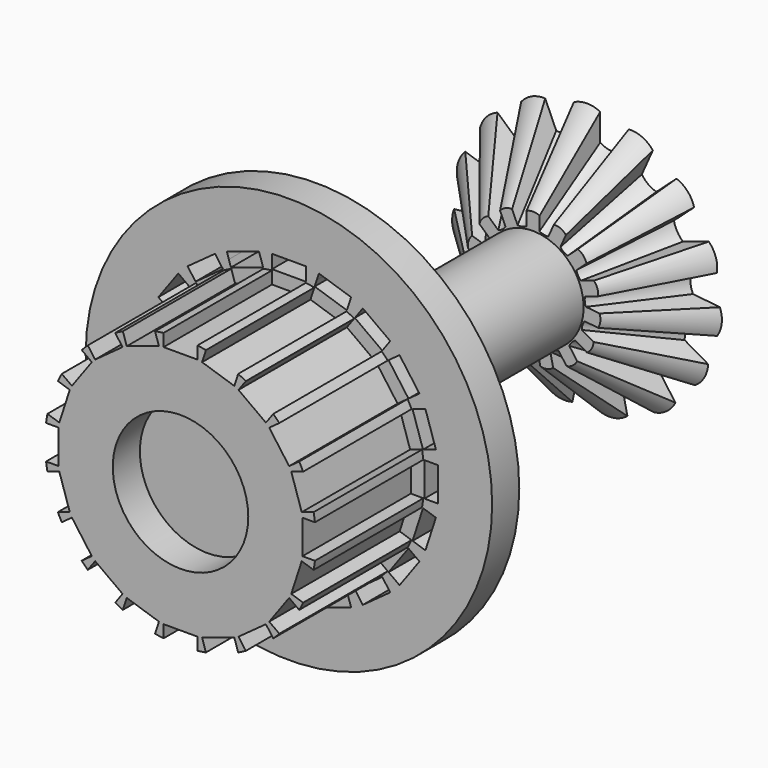
from build123d import *

# Parameters (mm, degrees)
F0_R      = 20
F1_DEPTH  = 20
F2_R      = 30
F3_DEPTH  = 5
F5_DEPTH  = 5.001
F6_R      = 7.5
F7_DEPTH  = 40
F8_W      = 5
F8_H      = 2
F8_W_2    = 2
F8_H_2    = 5
F9_DEPTH  = 20
F12_R     = 10
F13_DEPTH = 5


with BuildPart() as f1:
    # F0 (on Front) → F1 (new body)
    with BuildSketch(Plane.XZ):
        Circle(F0_R)
    extrude(amount=F1_DEPTH)

    # F2 (on face) → F3 (join)
    with BuildSketch(Plane(origin=(0, 0, 0), x_dir=(-1, 0, 0), z_dir=(0, 1, 0))):
        Circle(F2_R)
    extrude(amount=F3_DEPTH)

    # F4 (on face) → F5 (cut, through all)
    with BuildSketch(Plane.XZ):
        Polygon((-2.5, 22), (-2.5, 21), (-2.5, 20), (2.5, 20), (2.5, 22), align=None)
        Polygon((-4.420733, 21.695786), (-9.176015, 20.150701), (-8.866998, 19.199644), (-8.557981, 18.248588), (-3.802699, 19.793673), align=None)
        Polygon((-10.908733, 19.267837), (-14.953818, 16.328911), (-14.366033, 15.519894), (-13.778248, 14.710877), (-9.733163, 17.649803), align=None)
        Polygon((-16.328911, 14.953818), (-19.267837, 10.908733), (-18.45882, 10.320948), (-17.649803, 9.733163), (-14.710877, 13.778248), align=None)
        Polygon((-20.150701, 9.176015), (-21.695786, 4.420733), (-20.744729, 4.111716), (-19.793673, 3.802699), (-18.248588, 8.557981), align=None)
        Polygon((-22, 2.5), (-22, -2.5), (-21, -2.5), (-20, -2.5), (-20, 2.5), align=None)
        Polygon((-21.695786, -4.420733), (-20.150701, -9.176015), (-19.199644, -8.866998), (-18.248588, -8.557981), (-19.793673, -3.802699), align=None)
        Polygon((-19.267837, -10.908733), (-16.328911, -14.953818), (-15.519894, -14.366033), (-14.710877, -13.778248), (-17.649803, -9.733163), align=None)
        Polygon((-14.953818, -16.328911), (-10.908733, -19.267837), (-10.320948, -18.45882), (-9.733163, -17.649803), (-13.778248, -14.710877), align=None)
        Polygon((-9.176015, -20.150701), (-4.420733, -21.695786), (-4.111716, -20.744729), (-3.802699, -19.793673), (-8.557981, -18.248588), align=None)
        Polygon((-2.5, -22), (2.5, -22), (2.5, -21), (2.5, -20), (-2.5, -20), align=None)
        Polygon((4.420733, -21.695786), (9.176015, -20.150701), (8.866998, -19.199644), (8.557981, -18.248588), (3.802699, -19.793673), align=None)
        Polygon((10.908733, -19.267837), (14.953818, -16.328911), (14.366033, -15.519894), (13.778248, -14.710877), (9.733163, -17.649803), align=None)
        Polygon((16.328911, -14.953818), (19.267837, -10.908733), (18.45882, -10.320948), (17.649803, -9.733163), (14.710877, -13.778248), align=None)
        Polygon((20.150701, -9.176015), (21.695786, -4.420733), (20.744729, -4.111716), (19.793673, -3.802699), (18.248588, -8.557981), align=None)
        Polygon((22, -2.5), (22, 2.5), (21, 2.5), (20, 2.5), (20, -2.5), align=None)
        Polygon((21.695786, 4.420733), (20.150701, 9.176015), (19.199644, 8.866998), (18.248588, 8.557981), (19.793673, 3.802699), align=None)
        Polygon((19.267837, 10.908733), (16.328911, 14.953818), (15.519894, 14.366033), (14.710877, 13.778248), (17.649803, 9.733163), align=None)
        Polygon((14.953818, 16.328911), (10.908733, 19.267837), (10.320948, 18.45882), (9.733163, 17.649803), (13.778248, 14.710877), align=None)
        Polygon((9.176015, 20.150701), (4.420733, 21.695786), (4.111716, 20.744729), (3.802699, 19.793673), (8.557981, 18.248588), align=None)
    extrude(amount=-F5_DEPTH, mode=Mode.SUBTRACT)

    # F6 (on face) → F7 (join)
    with BuildSketch(Plane(origin=(0, 5, 0), x_dir=(-1, 0, 0), z_dir=(0, 1, 0))):
        Circle(F6_R)
    extrude(amount=F7_DEPTH)

    # F8 (on face) → F9 (cut)
    with BuildSketch(Plane.XZ.offset(20)):
        with Locations((0, 19)):
            Rectangle(F8_W, F8_H)
        Polygon((-8.557981, 18.248588), (-7.939947, 16.346475), (-3.184665, 17.89156), (-3.802699, 19.793673), align=None)
        Polygon((-13.778248, 14.710877), (-12.602677, 13.092843), (-8.557592, 16.031769), (-9.733163, 17.649803), align=None)
        Polygon((-17.649803, 9.733163), (-16.031769, 8.557592), (-13.092843, 12.602677), (-14.710877, 13.778248), align=None)
        Polygon((-19.793673, 3.802699), (-17.89156, 3.184665), (-16.346475, 7.939947), (-18.248588, 8.557981), align=None)
        with Locations((-19, 0)):
            Rectangle(F8_W_2, F8_H_2)
        Polygon((-18.248588, -8.557981), (-16.346475, -7.939947), (-17.89156, -3.184665), (-19.793673, -3.802699), align=None)
        Polygon((-14.710877, -13.778248), (-13.092843, -12.602677), (-16.031769, -8.557592), (-17.649803, -9.733163), align=None)
        Polygon((-9.733163, -17.649803), (-8.557592, -16.031769), (-12.602677, -13.092843), (-13.778248, -14.710877), align=None)
        Polygon((-3.802699, -19.793673), (-3.184665, -17.89156), (-7.939947, -16.346475), (-8.557981, -18.248588), align=None)
        with Locations((0, -19)):
            Rectangle(F8_W, F8_H)
        Polygon((8.557981, -18.248588), (7.939947, -16.346475), (3.184665, -17.89156), (3.802699, -19.793673), align=None)
        Polygon((13.778248, -14.710877), (12.602677, -13.092843), (8.557592, -16.031769), (9.733163, -17.649803), align=None)
        Polygon((17.649803, -9.733163), (16.031769, -8.557592), (13.092843, -12.602677), (14.710877, -13.778248), align=None)
        Polygon((19.793673, -3.802699), (17.89156, -3.184665), (16.346475, -7.939947), (18.248588, -8.557981), align=None)
        with Locations((19, 0)):
            Rectangle(F8_W_2, F8_H_2)
        Polygon((18.248588, 8.557981), (16.346475, 7.939947), (17.89156, 3.184665), (19.793673, 3.802699), align=None)
        Polygon((14.710877, 13.778248), (13.092843, 12.602677), (16.031769, 8.557592), (17.649803, 9.733163), align=None)
        Polygon((9.733163, 17.649803), (8.557592, 16.031769), (12.602677, 13.092843), (13.778248, 14.710877), align=None)
        Polygon((3.802699, 19.793673), (3.184665, 17.89156), (7.939947, 16.346475), (8.557981, 18.248588), align=None)
    extrude(amount=-F9_DEPTH, mode=Mode.SUBTRACT)

    # F12 (on face) → F13 (cut)
    with BuildSketch(Plane.XZ.offset(20)):
        Circle(F12_R)
    extrude(amount=-F13_DEPTH, mode=Mode.SUBTRACT)

    # F14 (on face) → F15 section 0
    with BuildSketch(Plane(origin=(0, 45, 0), x_dir=(-1, 0, 0), z_dir=(0, 1, 0))):
        with BuildLine():
            ThreePointArc((4.832945, 8.537273), (4.041926, 9.149064), (3.057981, 9.327538))
            Line((3.057981, 9.327538), (2.244508, 7.500447))
            ThreePointArc((2.244508, 7.500447), (1.572978, 7.53358), (0.946029, 7.776447))
            Line((0.946029, 7.776447), (0.946029, 9.776447))
            ThreePointArc((0.946029, 9.776447), (-0.025441, 10.013609), (-0.996911, 9.776447))
            Line((-0.996911, 9.776447), (-0.996911, 7.776447))
            ThreePointArc((-0.996911, 7.776447), (-1.62386, 7.53358), (-2.295389, 7.500447))
            Line((-2.295389, 7.500447), (-3.108863, 9.327538))
            ThreePointArc((-3.108863, 9.327538), (-4.092807, 9.149064), (-4.883827, 8.537273))
            Line((-4.883827, 8.537273), (-4.070353, 6.710182))
            ThreePointArc((-4.070353, 6.710182), (-4.544317, 6.233309), (-5.144313, 5.929904))
            Line((-5.144313, 5.929904), (-6.630603, 7.268166))
            ThreePointArc((-6.630603, 7.268166), (-7.456889, 6.704915), (-7.930683, 5.82428))
            Line((-7.930683, 5.82428), (-6.444394, 4.486019))
            ThreePointArc((-6.444394, 4.486019), (-6.68342, 3.857595), (-7.108137, 3.336381))
            Line((-7.108137, 3.336381), (-9.01025, 3.954415))
            ThreePointArc((-9.01025, 3.954415), (-9.536006, 3.103779), (-9.610652, 2.106569))
            Line((-9.610652, 2.106569), (-7.708539, 1.488535))
            ThreePointArc((-7.708539, 1.488535), (-7.671297, 0.817221), (-7.847299, 0.16832))
            Line((-7.847299, 0.16832), (-9.836343, -0.040737))
            ThreePointArc((-9.836343, -0.040737), (-9.97066, -1.031675), (-9.63325, -1.973033))
            Line((-9.63325, -1.973033), (-7.644206, -1.763976))
            ThreePointArc((-7.644206, -1.763976), (-7.337136, -2.362105), (-7.23399, -3.026492))
            Line((-7.23399, -3.026492), (-8.966041, -4.026492))
            ThreePointArc((-8.966041, -4.026492), (-8.685695, -4.986391), (-7.994571, -5.709127))
            Line((-7.994571, -5.709127), (-6.26252, -4.709127))
            ThreePointArc((-6.26252, -4.709127), (-5.738717, -5.130648), (-5.374258, -5.695642))
            Line((-5.374258, -5.695642), (-6.549829, -7.313676))
            ThreePointArc((-6.549829, -7.313676), (-5.903293, -8.076561), (-4.977957, -8.455708))
            Line((-4.977957, -8.455708), (-3.802387, -6.837674))
            ThreePointArc((-3.802387, -6.837674), (-3.152421, -7.009702), (-2.589667, -7.377612))
            Line((-2.589667, -7.377612), (-3.00549, -9.333907))
            ThreePointArc((-3.00549, -9.333907), (-2.104558, -9.767867), (-1.105008, -9.737867))
            Line((-1.105008, -9.737867), (-0.689184, -7.781572))
            ThreePointArc((-0.689184, -7.781572), (-0.025441, -7.674362), (0.638303, -7.781572))
            Line((0.638303, -7.781572), (1.054126, -9.737867))
            ThreePointArc((1.054126, -9.737867), (2.053676, -9.767867), (2.954608, -9.333907))
            Line((2.954608, -9.333907), (2.538785, -7.377612))
            ThreePointArc((2.538785, -7.377612), (3.101539, -7.009702), (3.751505, -6.837674))
            Line((3.751505, -6.837674), (4.927075, -8.455708))
            ThreePointArc((4.927075, -8.455708), (5.852412, -8.076561), (6.498947, -7.313676))
            Line((6.498947, -7.313676), (5.323376, -5.695642))
            ThreePointArc((5.323376, -5.695642), (5.687836, -5.130648), (6.211639, -4.709127))
            Line((6.211639, -4.709127), (7.943689, -5.709127))
            ThreePointArc((7.943689, -5.709127), (8.634813, -4.986391), (8.915159, -4.026492))
            Line((8.915159, -4.026492), (7.183109, -3.026492))
            ThreePointArc((7.183109, -3.026492), (7.286255, -2.362105), (7.593325, -1.763976))
            Line((7.593325, -1.763976), (9.582369, -1.973033))
            ThreePointArc((9.582369, -1.973033), (9.919778, -1.031675), (9.785461, -0.040737))
            Line((9.785461, -0.040737), (7.796417, 0.16832))
            ThreePointArc((7.796417, 0.16832), (7.620415, 0.817221), (7.657657, 1.488535))
            Line((7.657657, 1.488535), (9.55977, 2.106569))
            ThreePointArc((9.55977, 2.106569), (9.485124, 3.103779), (8.959369, 3.954415))
            Line((8.959369, 3.954415), (7.057256, 3.336381))
            ThreePointArc((7.057256, 3.336381), (6.632538, 3.857595), (6.393512, 4.486019))
            Line((6.393512, 4.486019), (7.879802, 5.82428))
            ThreePointArc((7.879802, 5.82428), (7.406007, 6.704915), (6.579721, 7.268166))
            Line((6.579721, 7.268166), (5.093431, 5.929904))
            ThreePointArc((5.093431, 5.929904), (4.493436, 6.233309), (4.019472, 6.710182))
            Line((4.019472, 6.710182), (4.832945, 8.537273))
        make_face()
    # F11 (on offset) → F15 section 1
    with BuildSketch(Plane(origin=(0, 55, 0), x_dir=(-1, 0, 0), z_dir=(0, 1, 0))):
        with BuildLine():
            ThreePointArc((1.942938, 19.525668), (0, 20), (-1.942938, 19.525668))
            Line((-1.942938, 19.525668), (-1.942938, 15.525668))
            ThreePointArc((-1.942938, 15.525668), (-3.194283, 15.027919), (-4.539896, 14.973667))
            Line((-4.539896, 14.973667), (-6.166842, 18.627849))
            ThreePointArc((-6.166842, 18.627849), (-8.134733, 18.270909), (-9.716767, 17.047321))
            Line((-9.716767, 17.047321), (-8.08982, 13.393139))
            ThreePointArc((-8.08982, 13.393139), (-9.030528, 12.429456), (-10.23774, 11.832584))
            Line((-10.23774, 11.832584), (-13.210319, 14.509106))
            ThreePointArc((-13.210319, 14.509106), (-14.862897, 13.382612), (-15.810478, 11.621337))
            Line((-15.810478, 11.621337), (-12.837899, 8.944815))
            ThreePointArc((-12.837899, 8.944815), (-13.305313, 7.681826), (-14.165386, 6.645539))
            Line((-14.165386, 6.645539), (-17.969613, 7.881607))
            ThreePointArc((-17.969613, 7.881607), (-19.02113, 6.18034), (-19.170414, 4.185919))
            Line((-19.170414, 4.185919), (-15.366188, 2.949851))
            ThreePointArc((-15.366188, 2.949851), (-15.279488, 1.605939), (-15.643709, 0.30942))
            Line((-15.643709, 0.30942), (-19.621796, -0.108693))
            ThreePointArc((-19.621796, -0.108693), (-19.890438, -2.090569), (-19.215612, -3.973283))
            Line((-19.215612, -3.973283), (-15.237524, -3.555169))
            ThreePointArc((-15.237524, -3.555169), (-14.611701, -4.74763), (-14.417092, -6.0802))
            Line((-14.417092, -6.0802), (-17.881193, -8.0802))
            ThreePointArc((-17.881193, -8.0802), (-17.320508, -10), (-15.938255, -11.445468))
            Line((-15.938255, -11.445468), (-12.474153, -9.445468))
            ThreePointArc((-12.474153, -9.445468), (-11.417418, -10.28029), (-10.697628, -11.418499))
            Line((-10.697628, -11.418499), (-13.048769, -14.654567))
            ThreePointArc((-13.048769, -14.654567), (-11.755705, -16.18034), (-9.905029, -16.938627))
            Line((-9.905029, -16.938627), (-7.553888, -13.702559))
            ThreePointArc((-7.553888, -13.702559), (-6.24896, -14.035394), (-5.128448, -14.782435))
            Line((-5.128448, -14.782435), (-5.960095, -18.695025))
            ThreePointArc((-5.960095, -18.695025), (-4.158234, -19.562952), (-2.159134, -19.502944))
            Line((-2.159134, -19.502944), (-1.327487, -15.590354))
            ThreePointArc((-1.327487, -15.590354), (0, -15.363652), (1.327487, -15.590354))
            Line((1.327487, -15.590354), (2.159134, -19.502944))
            ThreePointArc((2.159134, -19.502944), (4.158234, -19.562952), (5.960095, -18.695025))
            Line((5.960095, -18.695025), (5.128448, -14.782435))
            ThreePointArc((5.128448, -14.782435), (6.24896, -14.035394), (7.553888, -13.702559))
            Line((7.553888, -13.702559), (9.905029, -16.938627))
            ThreePointArc((9.905029, -16.938627), (11.755705, -16.18034), (13.048769, -14.654567))
            Line((13.048769, -14.654567), (10.697628, -11.418499))
            ThreePointArc((10.697628, -11.418499), (11.417418, -10.28029), (12.474153, -9.445468))
            Line((12.474153, -9.445468), (15.938255, -11.445468))
            ThreePointArc((15.938255, -11.445468), (17.320508, -10), (17.881193, -8.0802))
            Line((17.881193, -8.0802), (14.417092, -6.0802))
            ThreePointArc((14.417092, -6.0802), (14.611701, -4.74763), (15.237524, -3.555169))
            Line((15.237524, -3.555169), (19.215612, -3.973283))
            ThreePointArc((19.215612, -3.973283), (19.890438, -2.090569), (19.621796, -0.108693))
            Line((19.621796, -0.108693), (15.643709, 0.30942))
            ThreePointArc((15.643709, 0.30942), (15.279488, 1.605939), (15.366188, 2.949851))
            Line((15.366188, 2.949851), (19.170414, 4.185919))
            ThreePointArc((19.170414, 4.185919), (19.02113, 6.18034), (17.969613, 7.881607))
            Line((17.969613, 7.881607), (14.165386, 6.645539))
            ThreePointArc((14.165386, 6.645539), (13.305313, 7.681826), (12.837899, 8.944815))
            Line((12.837899, 8.944815), (15.810478, 11.621337))
            ThreePointArc((15.810478, 11.621337), (14.862897, 13.382612), (13.210319, 14.509106))
            Line((13.210319, 14.509106), (10.23774, 11.832584))
            ThreePointArc((10.23774, 11.832584), (9.030528, 12.429456), (8.08982, 13.393139))
            Line((8.08982, 13.393139), (9.716767, 17.047321))
            ThreePointArc((9.716767, 17.047321), (8.134733, 18.270909), (6.166842, 18.627849))
            Line((6.166842, 18.627849), (4.539896, 14.973667))
            ThreePointArc((4.539896, 14.973667), (3.194283, 15.027919), (1.942938, 15.525668))
            Line((1.942938, 15.525668), (1.942938, 19.525668))
        make_face()
    loft()


solid = f1.part
